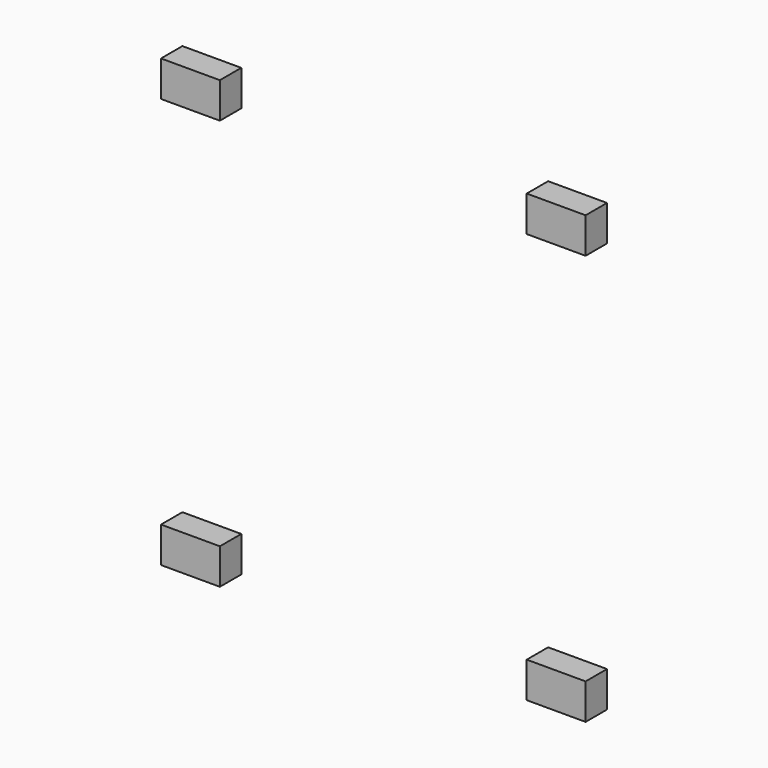
from build123d import *

# Parameters (mm, degrees)
BOX006_W         = 3.3
BOX006_H         = 1.5
BOX006_DEPTH     = 2
ARRAY001_X_COUNT = 2
ARRAY001_X_PITCH = 20.5
ARRAY001_Z_COUNT = 2
ARRAY001_Z_PITCH = 23


with BuildPart() as part:
    # Box006 → Box006 (new body)
    with BuildSketch(Plane(origin=(7.5, -3, -1.4), x_dir=(1, 0, 0), z_dir=(0, 0, 1))):
        with Locations((1.65, 0.75)):
            Rectangle(BOX006_W, BOX006_H)
    extrude(amount=BOX006_DEPTH)

    # Array001 X: part ×2


with BuildPart() as part_1:
    add(part.part)
    with Locations(*[(i * ARRAY001_X_PITCH, 0, 0) for i in range(1, ARRAY001_X_COUNT)]):
        add(part.part)

    # Array001 Z: part ×2


with BuildPart() as part_2:
    add(part_1.part)
    with Locations(*[(0, 0, i * ARRAY001_Z_PITCH) for i in range(1, ARRAY001_Z_COUNT)]):
        add(part_1.part)


solid = part_2.part
